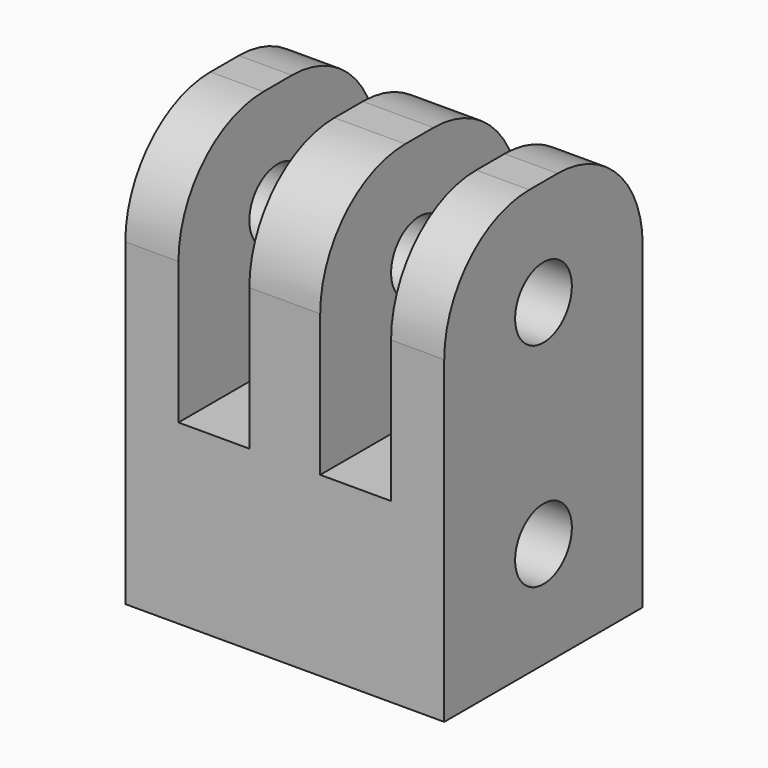
from build123d import *

# Parameters (mm, degrees)
F0_W     = 114.3
F0_H     = 88.9
F1_DEPTH = 152.4
F2_W     = 25.4
F2_H     = 88.9
F3_DEPTH = 88.901
F4_R     = 38.1
F5_R     = 12.7
F6_DEPTH = 114.301
F7_R     = 6.35
F8_DEPTH = 38.1


with BuildPart() as f1:
    # F0 (on Top) → F1 (new body)
    with BuildSketch(Plane.XY):
        Rectangle(F0_W, F0_H)
    extrude(amount=F1_DEPTH)

    # F2 (on face) → F3 (cut, through all)
    with BuildSketch(Plane.XZ.offset(44.45)):
        with Locations((-25.4, 107.95)):
            Rectangle(F2_W, F2_H)
        with Locations((25.4, 107.95)):
            Rectangle(F2_W, F2_H)
    extrude(amount=-F3_DEPTH, mode=Mode.SUBTRACT)

    # F4
    f4_edges = [f1.edges().sort_by_distance(p)[0] for p in [
        (47.625, -44.45, 152.4),
        (0, -44.45, 152.4),
        (-47.625, -44.45, 152.4),
        (-47.625, 44.45, 152.4),
        (0, 44.45, 152.4),
        (47.625, 44.45, 152.4),
    ]]
    fillet(f4_edges, radius=F4_R)

    # F5 (on face) → F6 (cut, through all)
    with BuildSketch(Plane(origin=(-57.15, 0, 0), x_dir=(0, -1, 0), z_dir=(-1, 0, 0))):
        with Locations((0, 38.1)):
            Circle(F5_R)
        with Locations((0, 114.3)):
            Circle(F5_R)
    extrude(amount=-F6_DEPTH, mode=Mode.SUBTRACT)

    # F7 (on face) → F8 (cut)
    with BuildSketch(Plane(origin=(0, 0, 0), x_dir=(1, 0, 0), z_dir=(0, 0, -1))):
        Circle(F7_R)
    extrude(amount=-F8_DEPTH, mode=Mode.SUBTRACT)


solid = f1.part
